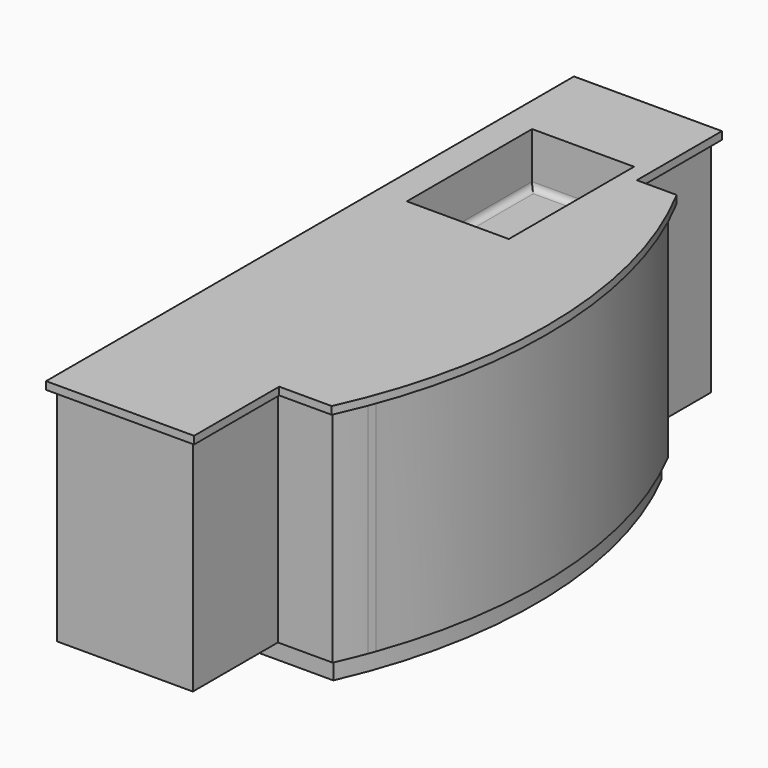
from build123d import *

# Parameters (mm, degrees)
F1_DEPTH  = 31.75
F3_DEPTH  = 914.4
F5_DEPTH  = 76.2
F6_W      = 489.402067
F6_H      = 800.100014
F6_W_2    = 413.202067
F6_H_2    = 723.900014
F7_DEPTH  = 12.7
F8_W      = 419.95435
F8_H      = 644.930006
F9_DEPTH  = 215.9
F10_R     = 25.4
F11_R     = 25.4
F12_DEPTH = 38.1


with BuildPart() as f1:
    # F0 (on Top) → F1 (new body)
    with BuildSketch(Plane.XY):
        with BuildLine():
            Line((-306.409396, 2175.264088), (-306.409396, -542.535912))
            Line((-306.409396, -542.535912), (303.190604, -542.535912))
            Line((303.190604, -542.535912), (303.190604, -104.385912))
            Line((303.190604, -104.385912), (519.375622, -104.385912))
            ThreePointArc((519.375622, -104.385912), (709.71736, 822.474711), (467.363477, 1737.114088))
            Line((467.363477, 1737.114088), (303.190604, 1737.114088))
            Line((303.190604, 1737.114088), (303.190604, 2175.264088))
            Line((303.190604, 2175.264088), (-306.409396, 2175.264088))
        make_face()
    extrude(amount=F1_DEPTH)

    # F2 (on face) → F3 (join)
    with BuildSketch(Plane(origin=(0, 0, 0), x_dir=(1, 0, 0), z_dir=(0, 0, -1))):
        with BuildLine():
            Line((277.790604, 517.135912), (-281.009396, 517.135912))
            Line((-281.009396, 517.135912), (-281.009396, -2149.864088))
            Line((-281.009396, -2149.864088), (277.790604, -2149.864088))
            Line((277.790604, -2149.864088), (277.790604, -1711.714088))
            Line((277.790604, -1711.714088), (452.056612, -1711.714088))
            ThreePointArc((452.056612, -1711.714088), (680.443153, -902.557054), (563.59979, -69.944813))
            ThreePointArc((563.59979, -69.944813), (558.147777, -55.035253), (552.580069, -40.16851))
            ThreePointArc((552.580069, -40.16851), (528.765772, 19.79969), (503.069531, 78.985912))
            Line((503.069531, 78.985912), (277.790604, 78.985912))
            Line((277.790604, 78.985912), (277.790604, 517.135912))
        make_face()
    extrude(amount=F3_DEPTH)

    # F4 (on face) → F5 (join)
    with BuildSketch(Plane(origin=(0, 0, -914.4), x_dir=(1, 0, 0), z_dir=(0, 0, -1))):
        with BuildLine():
            Line((490.74557, 59.93588), (-261.959396, 59.93588))
            Line((-261.959396, 59.93588), (-261.959396, -1692.66412))
            Line((-261.959396, -1692.66412), (440.49096, -1692.66412))
            ThreePointArc((440.49096, -1692.66412), (665.26035, -822.088721), (490.74557, 59.93588))
        make_face()
    extrude(amount=F5_DEPTH)

    # F6 (on face) → F7 (join)
    with BuildSketch(Plane(origin=(0, 2149.864088, 0), x_dir=(-1, 0, 0), z_dir=(0, 1, 0))):
        with Locations((9.221965, -444.656052)):
            Rectangle(F6_W, F6_H)
        with Locations((9.221965, -444.656052)):
            Rectangle(F6_W_2, F6_H_2, mode=Mode.SUBTRACT)
    extrude(amount=F7_DEPTH)

    # F8 (on face) → F9 (cut)
    with BuildSketch(Plane.XY.offset(31.75)):
        with Locations((27.522791, 1482.535601)):
            Rectangle(F8_W, F8_H)
    extrude(amount=-F9_DEPTH, mode=Mode.SUBTRACT)

    # F10
    f10_edges = [f1.edges().sort_by_distance(p)[0] for p in [
        (27.522791, 1805.000604, -184.15),
        (-182.454384, 1482.535601, -184.15),
        (237.499966, 1482.535601, -184.15),
        (27.522791, 1160.070598, -184.15),
    ]]
    fillet(f10_edges, radius=F10_R)

    # F11 (on face) → F12 (cut)
    with BuildSketch(Plane.XY.offset(-184.15)):
        with Locations((133.161105, 1482.535601)):
            Circle(F11_R)
    extrude(amount=-F12_DEPTH, mode=Mode.SUBTRACT)


solid = f1.part
